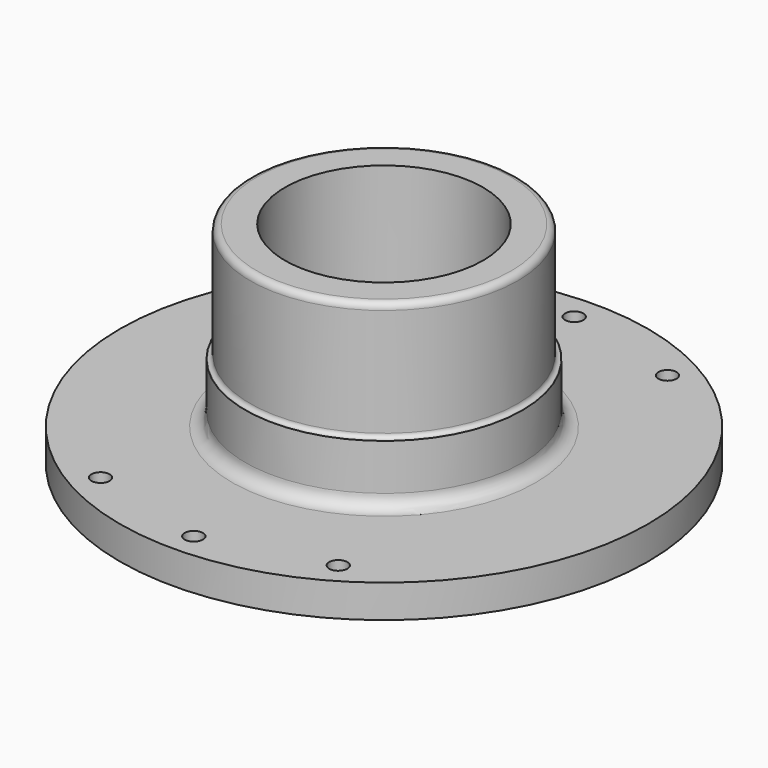
from build123d import *

# Parameters (mm, degrees)
F2_R     = 8.763
F3_DEPTH = 203.201


with BuildPart() as f1:
    # F0 (on Front) → F1 (revolve)
    with BuildSketch(Plane.XZ):
        with BuildLine():
            Line((95.25, 203.2), (95.25, 0))
            Line((95.25, 0), (254, 0))
            Line((254, 0), (254, 31.75))
            Line((254, 31.75), (146.05, 31.75))
            ThreePointArc((146.05, 31.75), (137.069744, 35.469744), (133.35, 44.45))
            Line((133.35, 44.45), (133.35, 88.9))
            Line((133.35, 88.9), (132.651, 88.9))
            ThreePointArc((132.651, 88.9), (129.822573, 90.071573), (128.651, 92.9))
            Line((128.651, 92.9), (128.651, 196.85))
            ThreePointArc((128.651, 196.85), (126.791128, 201.340128), (122.301, 203.2))
            Line((122.301, 203.2), (95.25, 203.2))
        make_face()
    revolve(axis=Axis((0, 0, 122.34015), (0, 0, 1)))

    # F2 (on Top) → F3 (cut, through all)
    with BuildSketch(Plane.XY):
        with Locations((0, 228.6)):
            Circle(F2_R)
        with Locations((0, -228.6)):
            Circle(F2_R)
        with Locations((114.3, -197.866)):
            Circle(F2_R)
        with Locations((-114.3, -197.866)):
            Circle(F2_R)
        with Locations((-114.3, 197.866)):
            Circle(F2_R)
        with Locations((114.3, 197.866)):
            Circle(F2_R)
    extrude(amount=F3_DEPTH, mode=Mode.SUBTRACT)


solid = f1.part
